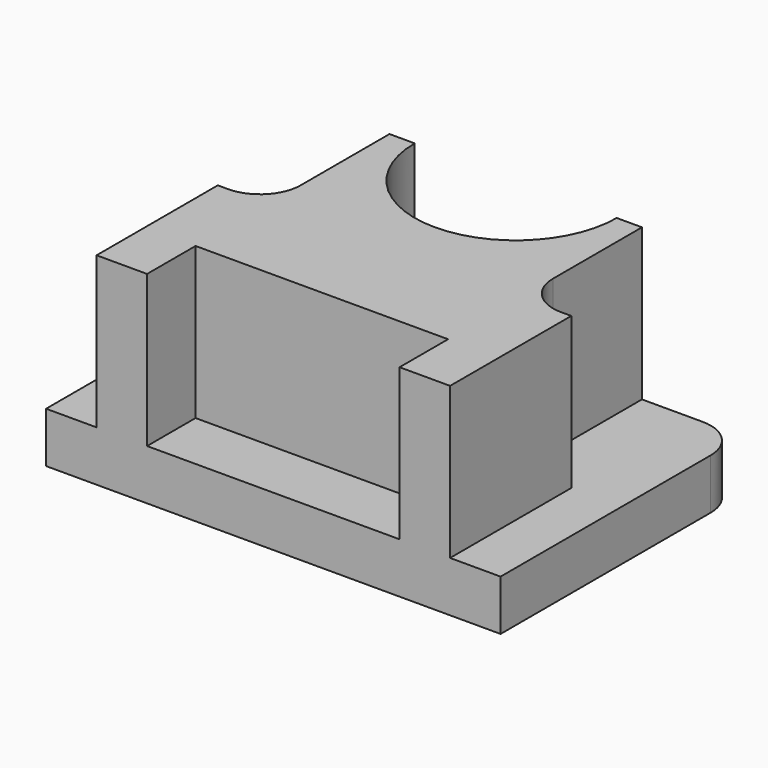
from build123d import *

# Parameters (mm, degrees)
F0_W     = 57.15
F0_H     = 38.1
F1_DEPTH = 25.4
F2_W     = 15.875
F2_H     = 7.62
F3_DEPTH = 19.05
F4_R     = 12.7
F5_DEPTH = 25.401
F6_R     = 5.08
F7_R     = 5.08


with BuildPart() as f1:
    # F0 (on Top) → F1 (new body)
    with BuildSketch(Plane.XY):
        Rectangle(F0_W, F0_H)
    extrude(amount=F1_DEPTH)

    # F2 (on face) → F3 (cut)
    with BuildSketch(Plane.XY.offset(25.4)):
        with Locations((-7.9375, -15.24)):
            Rectangle(F2_W, F2_H)
        with Locations((7.9375, -15.24)):
            Rectangle(F2_W, F2_H)
        Polygon((-28.575, 19.05), (-28.575, -19.05), (-22.225, -19.05), (-22.225, 0), (-15.875, 0), (-15.875, 19.05), (-22.225, 19.05), align=None)
        Polygon((22.225, 19.05), (15.875, 19.05), (15.875, 0), (22.225, 0), (22.225, -19.05), (28.575, -19.05), (28.575, 19.05), align=None)
    extrude(amount=-F3_DEPTH, mode=Mode.SUBTRACT)

    # F4 (on face) → F5 (cut, through all)
    with BuildSketch(Plane.XY.offset(25.4)):
        with Locations((0, 19.05)):
            Circle(F4_R)
    extrude(amount=-F5_DEPTH, mode=Mode.SUBTRACT)

    # F6
    f6_edges = [f1.edges().sort_by_distance(p)[0] for p in [
        (-15.875, 0, 15.875),
        (15.875, 0, 15.875),
    ]]
    fillet(f6_edges, radius=F6_R)

    # F7
    f7_edges = [f1.edges().sort_by_distance(p)[0] for p in [
        (28.575, 19.05, 3.175),
        (-28.575, 19.05, 3.175),
    ]]
    fillet(f7_edges, radius=F7_R)


solid = f1.part
